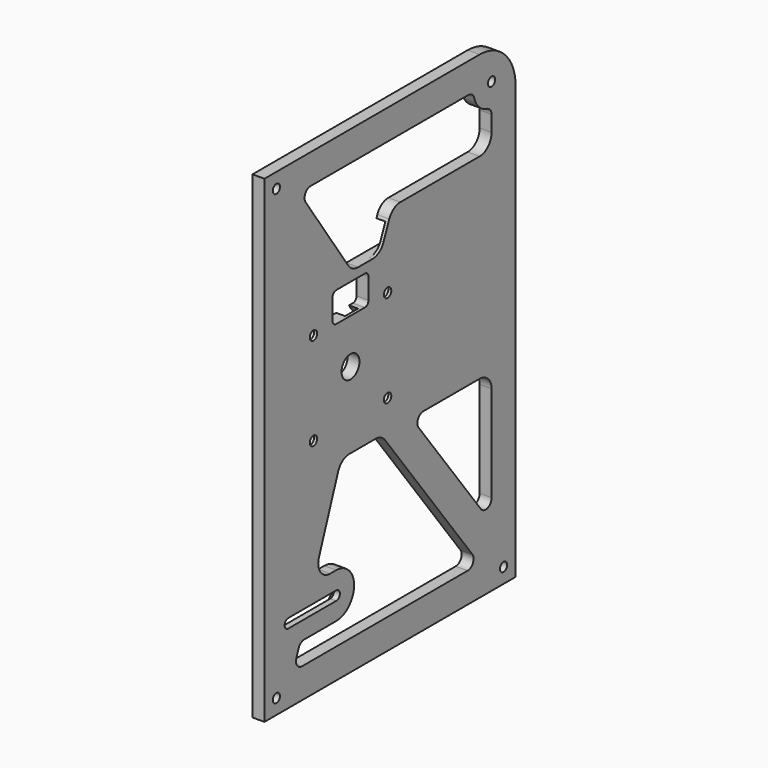
from build123d import *

# Parameters (mm, degrees)
SKETCH_R           = 3.75
SKETCH_R_2         = 1.5
SKETCH_R_3         = 1.55
SKETCH_W           = 15
SKETCH_H           = 10
PAD_DEPTH          = 4
SKETCH002_R        = 3
POCKET_DEPTH       = 3
CHAMFER001_SIZE    = 0.5
POCKET001_DEPTH    = 3
SKETCH003_W        = 7.5
SKETCH003_H        = 2.5
SKETCH003_H_2      = 1.75
PAD001_DEPTH       = 1
CHAMFER002_1_SIZE2 = 1.5
CHAMFER002_1_SIZE  = 0.8
CHAMFER002_2_SIZE2 = 1.5
CHAMFER002_2_SIZE  = 0.8
CHAMFER002_3_SIZE2 = 1.5
CHAMFER002_3_SIZE  = 0.8
CHAMFER002_4_SIZE2 = 1.5
CHAMFER002_4_SIZE  = 0.8
FILLET_R           = 1.5
FILLET001_R        = 1
FILLET002_R        = 5
FILLET003_R        = 2.5
CHAMFER003_SIZE    = 2


with BuildPart() as part:
    # Sketch → Pad (new body)
    with BuildSketch(Plane.YZ):
        with BuildLine():
            Line((0, 0), (105, 0))
            Line((105, 0), (105, 145))
            ThreePointArc((105, 145), (100.606602, 155.606602), (90, 160))
            Line((0, 160), (90, 160))
            Line((0, 160), (0, 0))
        make_face()
        with Locations((36, 90)):
            Circle(SKETCH_R, mode=Mode.SUBTRACT)
        with Locations((5, 155)):
            Circle(SKETCH_R_2, mode=Mode.SUBTRACT)
        with Locations((95, 150)):
            Circle(SKETCH_R_2, mode=Mode.SUBTRACT)
        with Locations((100, 5)):
            Circle(SKETCH_R_2, mode=Mode.SUBTRACT)
        with Locations((5, 5)):
            Circle(SKETCH_R_2, mode=Mode.SUBTRACT)
        with Locations((20.5, 105.5)):
            Circle(SKETCH_R_3, mode=Mode.SUBTRACT)
        with Locations((51.5, 105.5)):
            Circle(SKETCH_R_3, mode=Mode.SUBTRACT)
        with Locations((51.5, 74.5)):
            Circle(SKETCH_R_3, mode=Mode.SUBTRACT)
        with Locations((20.5, 74.5)):
            Circle(SKETCH_R_3, mode=Mode.SUBTRACT)
        with BuildLine():
            ThreePointArc((10, 26.55), (8.45, 25), (10, 23.45))
            Line((10, 23.45), (30, 23.45))
            ThreePointArc((30, 23.45), (31.55, 25), (30, 26.55))
            Line((10, 26.55), (30, 26.55))
        make_face(mode=Mode.SUBTRACT)
        with BuildLine():
            ThreePointArc((30, 17.5), (37.5, 25), (30, 32.5))
            Line((30, 32.5), (20.35156, 32.5))
            Line((32.022148, 64.5), (20.35156, 32.5))
            Line((48.941165, 64.5), (32.022148, 64.5))
            Line((89.97646, 10), (48.941165, 64.5))
            Line((12.145677, 10), (89.97646, 10))
            Line((14.880972, 17.5), (12.145677, 10))
            Line((30, 17.5), (14.880972, 17.5))
        make_face(mode=Mode.SUBTRACT)
        Polygon((61.458835, 64.5), (95, 64.5), (95, 19.95314), align=None, mode=Mode.SUBTRACT)
        with Locations((36, 110)):
            Rectangle(SKETCH_W, SKETCH_H, mode=Mode.SUBTRACT)
        with BuildLine():
            Line((14.516034, 150), (36.560478, 118))
            Line((48.5, 118), (36.560478, 118))
            Line((48.5, 118), (53.5, 130))
            Line((53.5, 130), (95, 130))
            Line((95, 130), (95, 142.5))
            ThreePointArc((87.5, 150), (89.696699, 144.696699), (95, 142.5))
            Line((14.516034, 150), (87.5, 150))
        make_face(mode=Mode.SUBTRACT)
    extrude(amount=PAD_DEPTH)

    # Sketch002 → Pocket (cut)
    with BuildSketch(Plane(origin=(0, 0, 0), x_dir=(0, 1, 0), z_dir=(-1, 0, 0))):
        with Locations((51.5, -105.5)):
            Circle(SKETCH002_R)
        with Locations((20.5, -105.5)):
            Circle(SKETCH002_R)
        with Locations((20.5, -74.5)):
            Circle(SKETCH002_R)
        with Locations((51.5, -74.5)):
            Circle(SKETCH002_R)
    extrude(amount=-POCKET_DEPTH, mode=Mode.SUBTRACT)

    # Chamfer001
    chamfer001_edges = [part.edges().sort_by_distance(p)[0] for p in [
        (0, 48.5, 105.5),
        (0, 17.5, 105.5),
        (0, 17.5, 74.5),
        (0, 48.5, 74.5),
    ]]
    chamfer(chamfer001_edges, length=CHAMFER001_SIZE)

    # Sketch001 → Pocket001 (cut)
    with BuildSketch(Plane(origin=(0, 0, 0), x_dir=(0, 1, 0), z_dir=(-1, 0, 0))):
        with BuildLine():
            Line((34.196597, -108.793538), (34.118854, -109.790511))
            Line((34.118854, -109.790511), (39.103722, -110.179223))
            Line((39.181464, -109.18225), (39.103722, -110.179223))
            ThreePointArc((50, -99.174484), (42.631213, -102.060099), (39.181464, -109.18225))
            Line((105, -99.174484), (50, -99.174484))
            Line((105, -99.174484), (105, -94.174484))
            Line((105, -94.174484), (50, -94.174484))
            ThreePointArc((50, -94.174484), (39.23589, -98.389707), (34.196597, -108.793538))
        make_face()
        Polygon((105, -124), (105, -120), (75, -120), (65, -118), (45, -118), (45, -126), (65, -126), (75, -124), align=None)
    extrude(amount=-POCKET001_DEPTH, mode=Mode.SUBTRACT)

    # Sketch003 (on Face1 of Pocket001) → Pad001 (join)
    with BuildSketch(Plane(origin=(0, 0, 0), x_dir=(0, 1, 0), z_dir=(-1, 0, 0))):
        with Locations((53.75, -95.424484)):
            Rectangle(SKETCH003_W, SKETCH003_H)
        with Locations((77.5, -97.924484)):
            Rectangle(SKETCH003_W, SKETCH003_H)
        with Locations((101.25, -95.424484)):
            Rectangle(SKETCH003_W, SKETCH003_H)
        with Locations((101.25, -120.875)):
            Rectangle(SKETCH003_W, SKETCH003_H_2)
        with Locations((78.75, -123.125)):
            Rectangle(SKETCH003_W, SKETCH003_H_2)
    extrude(amount=-PAD001_DEPTH)

    # Chamfer002 1
    chamfer002_1_edges = [part.edges().sort_by_distance(p)[0] for p in [
        (1, 101.25, 94.174484),
        (1, 53.75, 94.174484),
    ]]
    chamfer002_1_side = part.faces().sort_by_distance((1.6, 77.5, 94.174484))[0]
    chamfer(chamfer002_1_edges, length=CHAMFER002_1_SIZE, length2=CHAMFER002_1_SIZE2, reference=chamfer002_1_side)

    # Chamfer002 2
    chamfer002_2_edges = [part.edges().sort_by_distance(p)[0] for p in [
        (1, 77.5, 99.174484),
    ]]
    chamfer002_2_side = part.faces().sort_by_distance((1.547619, 77.5, 99.174484))[0]
    chamfer(chamfer002_2_edges, length=CHAMFER002_2_SIZE, length2=CHAMFER002_2_SIZE2, reference=chamfer002_2_side)

    # Chamfer002 3
    chamfer002_3_edges = [part.edges().sort_by_distance(p)[0] for p in [
        (1, 78.75, 124),
    ]]
    chamfer002_3_side = part.faces().sort_by_distance((1.590909, 91.022727, 124))[0]
    chamfer(chamfer002_3_edges, length=CHAMFER002_3_SIZE, length2=CHAMFER002_3_SIZE2, reference=chamfer002_3_side)

    # Chamfer002 4
    chamfer002_4_edges = [part.edges().sort_by_distance(p)[0] for p in [
        (1, 101.25, 120),
    ]]
    chamfer002_4_side = part.faces().sort_by_distance((1.590909, 88.977273, 120))[0]
    chamfer(chamfer002_4_edges, length=CHAMFER002_4_SIZE, length2=CHAMFER002_4_SIZE2, reference=chamfer002_4_side)

    # Fillet
    fillet_edges = [part.edges().sort_by_distance(p)[0] for p in [
        (2, 43.5, 105),
        (2, 43.5, 115),
        (2, 28.5, 105),
        (2, 28.5, 115),
    ]]
    fillet(fillet_edges, radius=FILLET_R)

    # Fillet001
    fillet001_edges = [part.edges().sort_by_distance(p)[0] for p in [
        (0.5, 75, 122.25),
        (0.5, 82.5, 122.25),
        (0.5, 97.5, 121.75),
        (0.5, 97.5, 96.674484),
        (0.5, 73.75, 96.674484),
        (0.5, 50, 96.674484),
        (0.5, 105, 96.674484),
        (0.5, 105, 121.75),
        (0.5, 81.25, 96.674484),
        (0.5, 57.5, 96.674484),
    ]]
    fillet(fillet001_edges, radius=FILLET001_R)

    # Fillet002
    fillet002_edges = [part.edges().sort_by_distance(p)[0] for p in [
        (2, 95, 130),
        (2, 53.5, 130),
        (3.5, 48.5, 118),
        (2, 36.560478, 118),
        (2, 95, 64.5),
        (2, 48.941165, 64.5),
        (2, 32.022148, 64.5),
        (2, 20.35156, 32.5),
    ]]
    fillet(fillet002_edges, radius=FILLET002_R)

    # Fillet003
    fillet003_edges = [part.edges().sort_by_distance(p)[0] for p in [
        (2, 61.458835, 64.5),
        (2, 14.880972, 17.5),
        (2, 12.145677, 10),
        (2, 95, 19.95314),
        (2, 89.97646, 10),
        (2, 14.516034, 150),
        (2, 95, 142.5),
        (2, 87.5, 150),
    ]]
    fillet(fillet003_edges, radius=FILLET003_R)

    # Chamfer003
    chamfer003_edges = [part.edges().sort_by_distance(p)[0] for p in [
        (0, 20, 26.55),
        (0, 98.5, 5),
        (0, 3.5, 5),
        (0, 3.5, 155),
        (0, 93.5, 150),
    ]]
    chamfer(chamfer003_edges, length=CHAMFER003_SIZE)


solid = part.part
